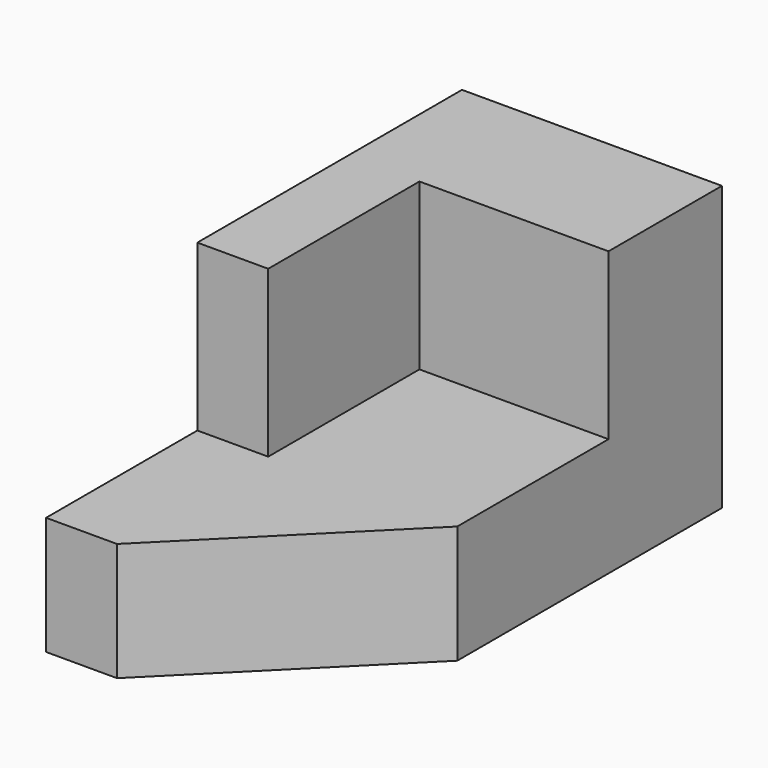
from build123d import *

# Parameters (mm, degrees)
F0_W     = 1397
F0_H     = 2794
F1_DEPTH = 635
F3_DEPTH = 660.4
F4_W     = 1397
F4_H     = 1778
F5_DEPTH = 889
F6_W     = 1016
F6_H     = 1016
F7_DEPTH = 889


with BuildPart() as f1:
    # F0 (on Top) → F1 (new body)
    with BuildSketch(Plane.XY):
        with Locations((-641.821433, 1352.231931)):
            Rectangle(F0_W, F0_H)
    extrude(amount=F1_DEPTH)

    # F2 (on face) → F3 (cut)
    with BuildSketch(Plane.XY.offset(635)):
        Polygon((-959.321433, -44.768069), (56.678567, -44.768069), (56.678567, 971.231931), align=None)
    extrude(amount=-F3_DEPTH, mode=Mode.SUBTRACT)

    # F4 (on face) → F5 (join)
    with BuildSketch(Plane.XY.offset(635)):
        with Locations((-641.821433, 1860.231931)):
            Rectangle(F4_W, F4_H)
    extrude(amount=F5_DEPTH)

    # F6 (on face) → F7 (cut)
    with BuildSketch(Plane.XY.offset(1524)):
        with Locations((-451.321433, 1479.231931)):
            Rectangle(F6_W, F6_H)
    extrude(amount=-F7_DEPTH, mode=Mode.SUBTRACT)


solid = f1.part
